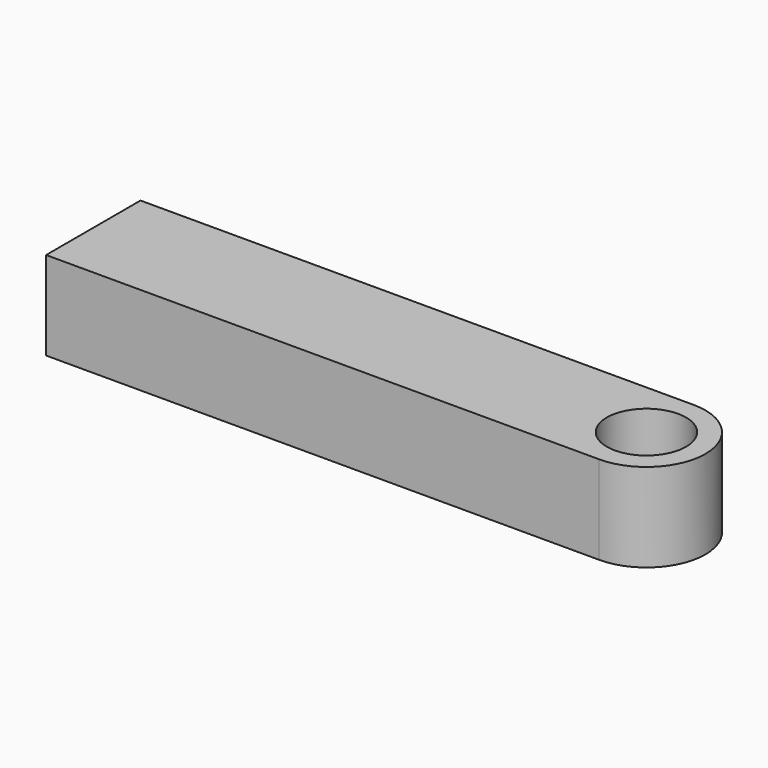
from build123d import *

# Parameters (mm, degrees)
F1_DEPTH = 38.1
F3_D     = 34.12998


with BuildPart() as f1:
    # F0 (on Top) → F1 (new body)
    with BuildSketch(Plane.XY):
        with BuildLine():
            ThreePointArc((119.0625, -25.4), (144.4625, 0), (119.0625, 25.4))
            Line((119.0625, 25.4), (-119.0625, 25.4))
            Line((-119.0625, 25.4), (-119.0625, -25.4))
            Line((-119.0625, -25.4), (119.0625, -25.4))
        make_face()
    extrude(amount=F1_DEPTH)

    # F3 (through all)
    with Locations(Plane.XY.offset(38.1)):
        with Locations((119.0625, 0)):
            Hole(F3_D / 2)


solid = f1.part
